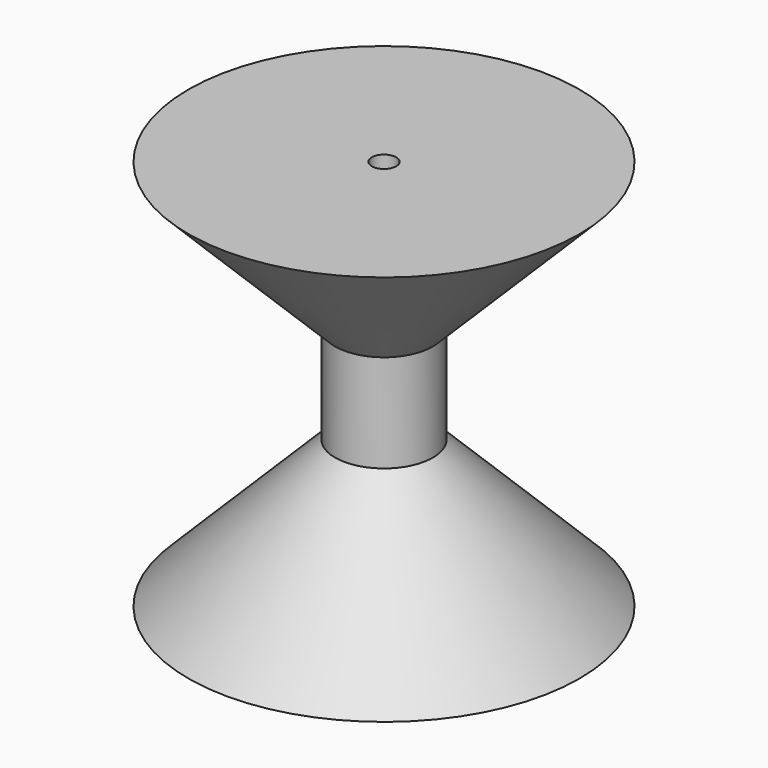
from build123d import *

# Parameters (mm, degrees)
F2_R     = 2.5
F3_DEPTH = 80


with BuildPart() as f1:
    # F0 (on Front) → F1 (revolve)
    with BuildSketch(Plane.XZ):
        Polygon((-40, 0), (0, 0), (0, 80), (-40, 80), (-10, 50), (-10, 30), align=None)
    revolve(axis=Axis((0, 0, 40), (0, 0, 1)))

    # F2 (on face) → F3 (cut, through all)
    with BuildSketch(Plane.XY.offset(80)):
        Circle(F2_R)
    extrude(amount=-F3_DEPTH, mode=Mode.SUBTRACT)


solid = f1.part
